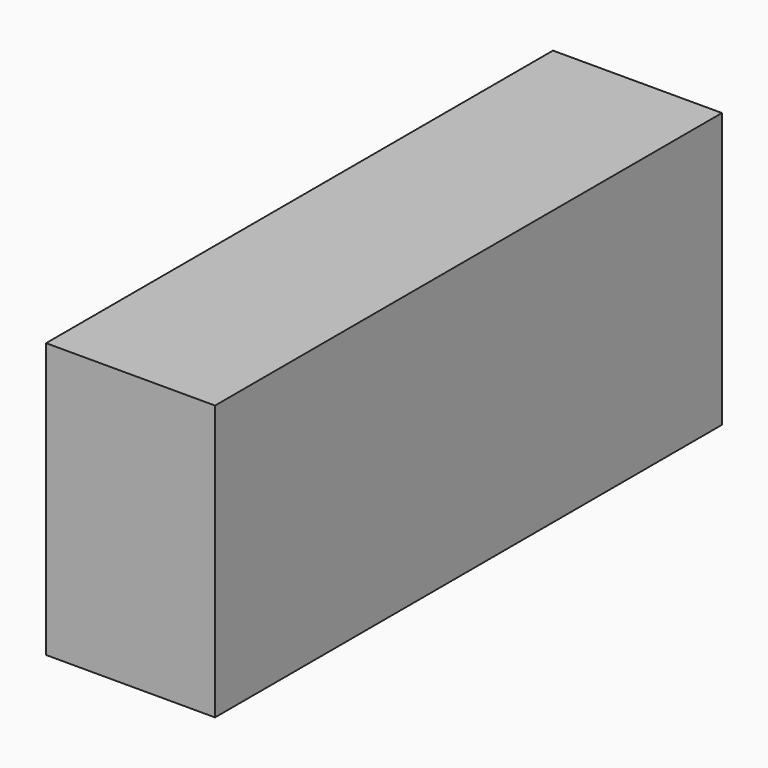
from build123d import *

# Parameters (mm, degrees)
SKETCH_W  = 4.8
SKETCH_H  = 18
PAD_DEPTH = 7.8


with BuildPart() as part:
    # Sketch → Pad (new body)
    with BuildSketch(Plane.XY):
        with Locations((2.814993, 1.726697)):
            Rectangle(SKETCH_W, SKETCH_H)
    extrude(amount=PAD_DEPTH)


solid = part.part
